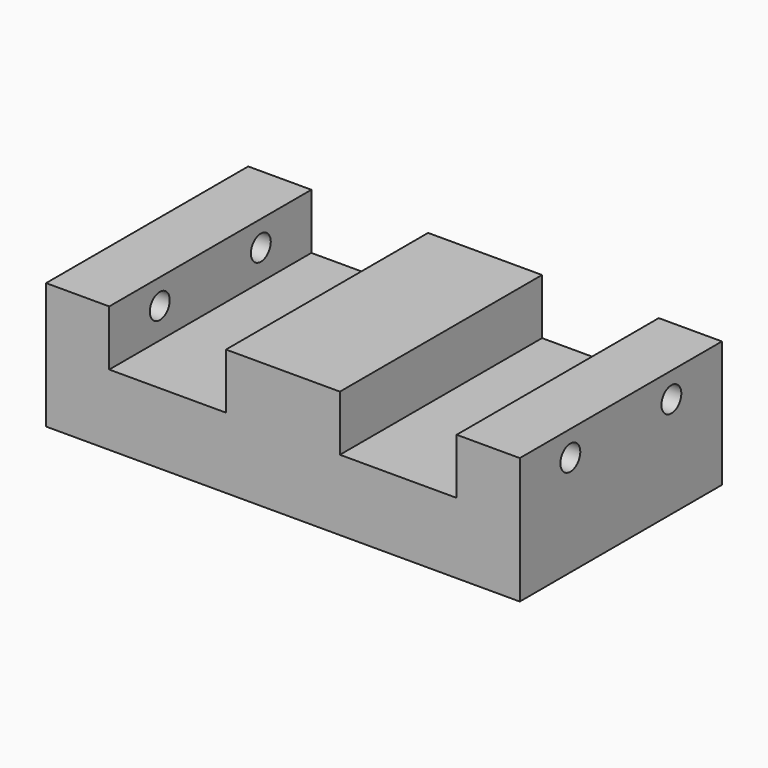
from build123d import *

# Parameters (mm, degrees)
F0_W     = 47.625
F0_H     = 25.4
F1_DEPTH = 12.7
F2_W     = 11.7348
F2_H     = 25.4
F3_DEPTH = 5.588
F6_D     = 2.5
F6_DEPTH = 7.62
F6_TIP   = 0.7510757738
F7_D     = 2.5
F7_DEPTH = 7.62
F7_TIP   = 0.7510757738


with BuildPart() as f1:
    # F0 (on Top) → F1 (new body)
    with BuildSketch(Plane.XY):
        Rectangle(F0_W, F0_H)
    extrude(amount=F1_DEPTH)

    # F2 (on face) → F3 (cut)
    with BuildSketch(Plane.XY.offset(12.7)):
        with Locations((-11.5951, 0)):
            Rectangle(F2_W, F2_H)
        with Locations((11.5951, 0)):
            Rectangle(F2_W, F2_H)
    extrude(amount=-F3_DEPTH, mode=Mode.SUBTRACT)

    # F6
    with Locations(Plane(origin=(-23.8125, 0, 0), x_dir=(0, -1, 0), z_dir=(-1, 0, 0))):
        with Locations((6.35, 10.16), (-6.35, 10.16)):
            Hole(F6_D / 2, depth=F6_DEPTH)
            with Locations((0, 0, -(F6_DEPTH + F6_TIP / 2))):  # 118° drill point
                Cone(0, F6_D / 2, F6_TIP, mode=Mode.SUBTRACT)

    # F7
    with Locations(Plane.YZ.offset(23.8125)):
        with Locations((-6.35, 10.16), (6.35, 10.16)):
            Hole(F7_D / 2, depth=F7_DEPTH)
            with Locations((0, 0, -(F7_DEPTH + F7_TIP / 2))):  # 118° drill point
                Cone(0, F7_D / 2, F7_TIP, mode=Mode.SUBTRACT)


solid = f1.part
